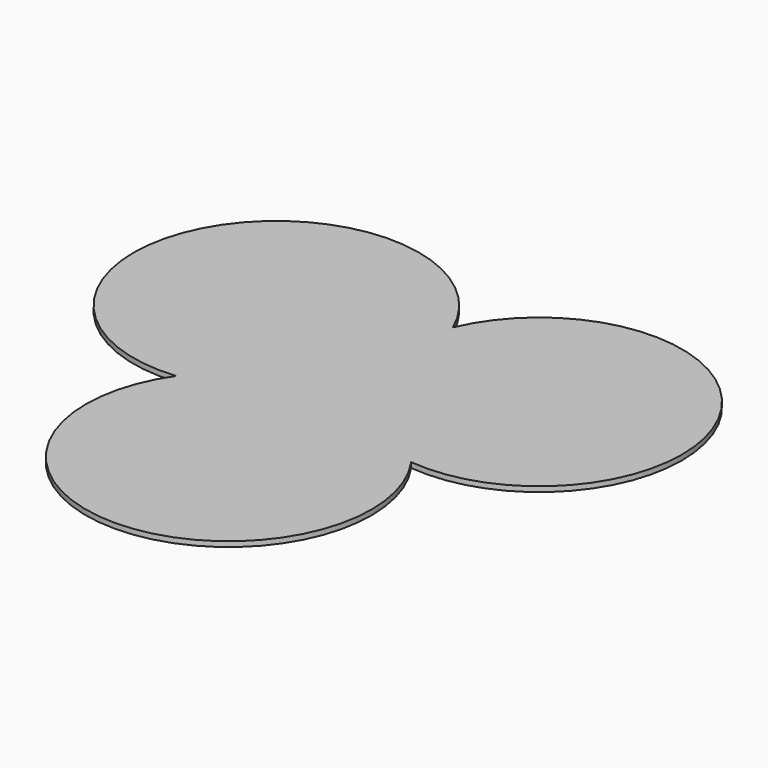
from build123d import *

# Parameters (mm, degrees)
F1_DEPTH = 3
F2_SCALE = 0.7


with BuildPart() as f1:
    # F0 (on Top) → F1 (new body)
    with BuildSketch(Plane.XY):
        with BuildLine():
            ThreePointArc((-68.2896086367, -39.4270239292), (0.2879749717, -169.6020408011), (67.960608205, -38.9542903329))
            ThreePointArc((67.960608205, -38.9542903329), (147.7973703054, 85.7870471445), (0, 76.2871950865))
            ThreePointArc((0, 76.2871950865), (-147.601477468, 85.3873866996), (-68.2896086367, -39.4270239292))
        make_face()
    extrude(amount=F1_DEPTH)


with BuildPart() as f1_1:
    # F2: moved
    add(f1.part.scale(F2_SCALE))


solid = f1_1.part
